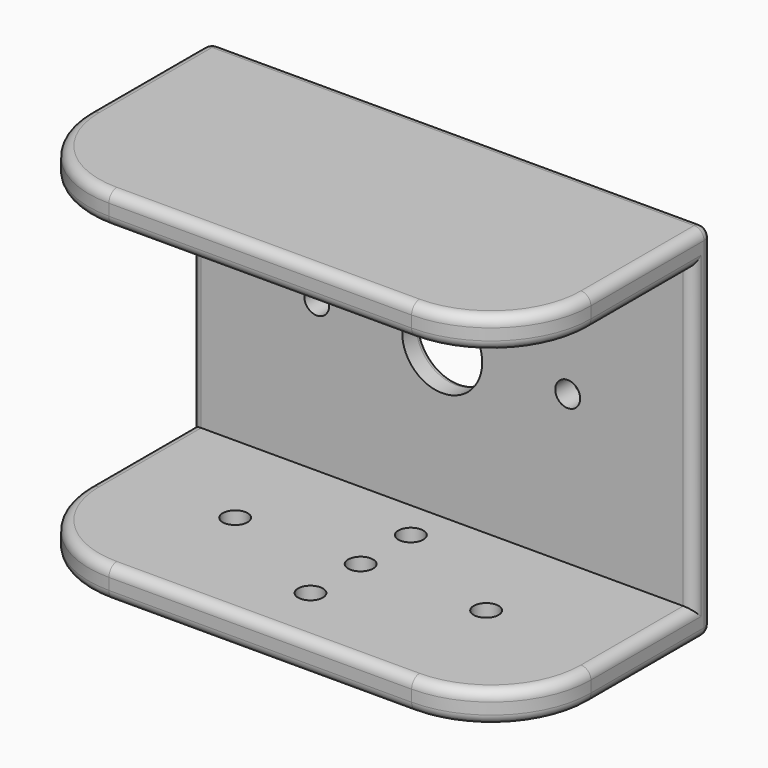
from build123d import *

# Parameters (mm, degrees)
F0_W     = 64
F0_H     = 38
F0_R     = 1.5875
F0_R_2   = 5.1
F1_DEPTH = 3
F0_H_2   = 4
F2_DEPTH = 32
F3_R     = 12.7
F4_R     = 1.5875
F5_DEPTH = 4
F6_R     = 1.27
F7_R     = 0.8
F8_R     = 1.27


with BuildPart() as f1:
    # F0 (on Front) → F1 (new body)
    with BuildSketch(Plane.XZ):
        with Locations((32, 19)):
            Rectangle(F0_W, F0_H)
        with Locations((16, 19)):
            Circle(F0_R, mode=Mode.SUBTRACT)
        with Locations((32, 19)):
            Circle(F0_R_2, mode=Mode.SUBTRACT)
        with Locations((48, 19)):
            Circle(F0_R, mode=Mode.SUBTRACT)
    extrude(amount=F1_DEPTH)

    # F0 (on Front) → F2 (join)
    with BuildSketch(Plane.XZ):
        with Locations((32, 40)):
            Rectangle(F0_W, F0_H_2)
        with Locations((32, -2)):
            Rectangle(F0_W, F0_H_2)
    extrude(amount=F2_DEPTH)

    # F3
    f3_edges = [f1.edges().sort_by_distance(p)[0] for p in [
        (64, -32, -2),
        (64, -32, 40),
        (0, -32, -2),
        (0, -32, 40),
    ]]
    fillet(f3_edges, radius=F3_R)

    # F4 (on face) → F5 (cut, through all)
    with BuildSketch(Plane(origin=(0, 0, -4), x_dir=(1, 0, 0), z_dir=(0, 0, -1))):
        with Locations((48, 16)):
            Circle(F4_R)
        with Locations((32, 24)):
            Circle(F4_R)
        with Locations((32, 16)):
            Circle(F4_R)
        with Locations((32, 8)):
            Circle(F4_R)
        with Locations((16, 16)):
            Circle(F4_R)
    extrude(amount=-F5_DEPTH, mode=Mode.SUBTRACT)

    # F6
    f6_edges = [f1.edges().sort_by_distance(p)[0] for p in [
        (0, -11.15, 38),
        (0, -9.65, 42),
        (0, -9.65, -4),
        (0, -11.15, 0),
        (0, -3, 19),
        (64, -3, 19),
    ]]
    fillet(f6_edges, radius=F6_R)

    # F7
    f7_edges = [f1.edges().sort_by_distance(p)[0] for p in [
        (26.9, 0, 19),
    ]]
    fillet(f7_edges, radius=F7_R)

    # F8
    f8_edges = [f1.edges().sort_by_distance(p)[0] for p in [
        (32, 0, -4),
        (32, 0, 42),
    ]]
    fillet(f8_edges, radius=F8_R)


solid = f1.part
